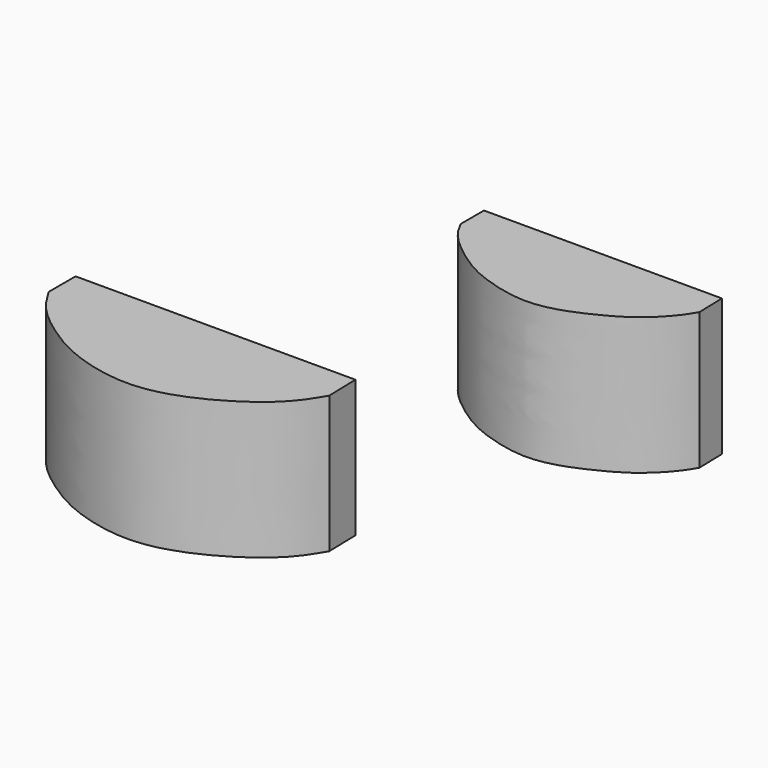
from build123d import *

# Parameters (mm, degrees)
F1_DEPTH = 25.4


with BuildPart() as f1:
    # F0 (on Top) → F1 (new body)
    with BuildSketch(Plane.XY):
        Polygon((-9.6443598714, 61.9911029935), (-53.7539998714, 61.9911029935), (-53.7539998714, 56.6158406436), (-9.5074875799, 56.6158406436), align=None)
        with BuildLine():
            Line((-9.5074875799, 56.6158406436), (-53.7539998714, 56.6158406436))
            add(Edge.make_bspline(
                [(-53.7539998714, 56.6158406436), (-53.1958246055, 55.5139231862), (-51.8155323893, 52.7890298016), (-44.5024642898, 47.1195538446), (-38.8316912212, 44.8066912842), (-31.768200733, 43.1419143597), (-25.6940812341, 44.2856565361), (-19.9460688906, 46.9108231014), (-15.2983174631, 49.5629370309), (-11.1317978864, 53.8193302427), (-9.9911070802, 55.7832121998), (-9.5074875799, 56.6158406436)],
                knots=[0, 0, 0, 0, 0.0937227709, 0.2317637829, 0.3487160238, 0.4701526382, 0.5843781377, 0.699076087, 0.8071117137, 0.9182210147, 1, 1, 1, 1], degree=3))
        make_face()
    extrude(amount=F1_DEPTH)


with BuildPart() as f1b:
    # F0 (on Top) → F1, piece 2 (new body)
    with BuildSketch(Plane.XY):
        Polygon((-35.1508576555, 8.9534779158), (-87.0227376555, 8.9534779158), (-87.0227376555, 2.6988288932), (-34.9915932162, 2.6988288932), align=None)
        with BuildLine():
            Line((-34.9915932162, 2.6988288932), (-87.0227376555, 2.6988288932))
            add(Edge.make_bspline(
                [(-87.0227376555, 2.6988288932), (-86.0780001208, 1.1442467365), (-84.0496793597, -2.1933905938), (-78.0029169412, -6.8540624847), (-71.3467092941, -10.7442695569), (-60.3095825132, -13.4388849725), (-50.7606638154, -10.8760733946), (-43.2718440232, -6.6575767634), (-37.8333856197, -2.1032703579), (-35.8998300892, 1.1640779373), (-34.9915932162, 2.6988288932)],
                knots=[0, 0, 0, 0, 0.1066086127, 0.2288852241, 0.3549026427, 0.5041298448, 0.6448405464, 0.7764731728, 0.8950041499, 1, 1, 1, 1], degree=3))
        make_face()
    extrude(amount=F1_DEPTH)


solid = Compound([f1.part, f1b.part])
